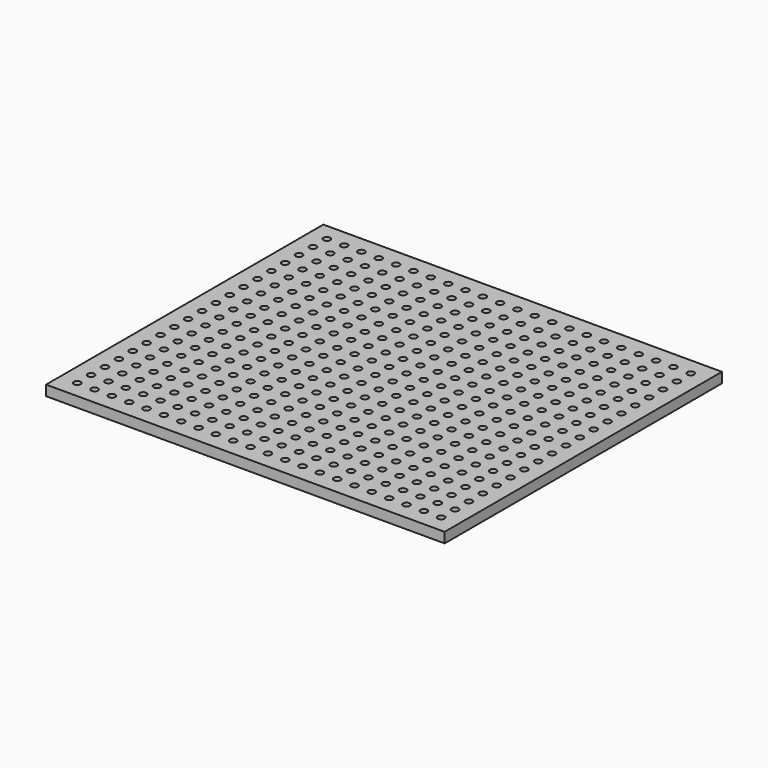
from build123d import *

# Parameters (mm, degrees)
CYLINDER_R     = 0.5
CYLINDER_DEPTH = 2.5
ARRAY_X_COUNT  = 22
ARRAY_X_PITCH  = 2.54
ARRAY_Y_COUNT  = 19
ARRAY_Y_PITCH  = 2.54
BOX_W          = 58.42
BOX_H          = 50.8
BOX_DEPTH      = 1.5


with BuildPart() as holearray:
    # Cylinder → Cylinder (new body)
    with BuildSketch(Plane(origin=(2.54, 2.54, -0.5), x_dir=(1, 0, 0), z_dir=(0, 0, 1))):
        Circle(CYLINDER_R)
    extrude(amount=CYLINDER_DEPTH)

    # Array X: HoleArray ×22


with BuildPart() as holearray_1:
    add(holearray.part)
    with Locations(*[(i * ARRAY_X_PITCH, 0, 0) for i in range(1, ARRAY_X_COUNT)]):
        add(holearray.part)

    # Array Y: HoleArray ×19


with BuildPart() as holearray_2:
    add(holearray_1.part)
    with Locations(*[(0, i * ARRAY_Y_PITCH, 0) for i in range(1, ARRAY_Y_COUNT)]):
        add(holearray_1.part)


with BuildPart() as boardcut:
    # Box → Box (new body)
    with BuildSketch(Plane.XY):
        with Locations((29.21, 25.4)):
            Rectangle(BOX_W, BOX_H)
    extrude(amount=BOX_DEPTH)

    # Cut: cut HoleArray
    add(holearray_2.part, mode=Mode.SUBTRACT)


solid = boardcut.part
